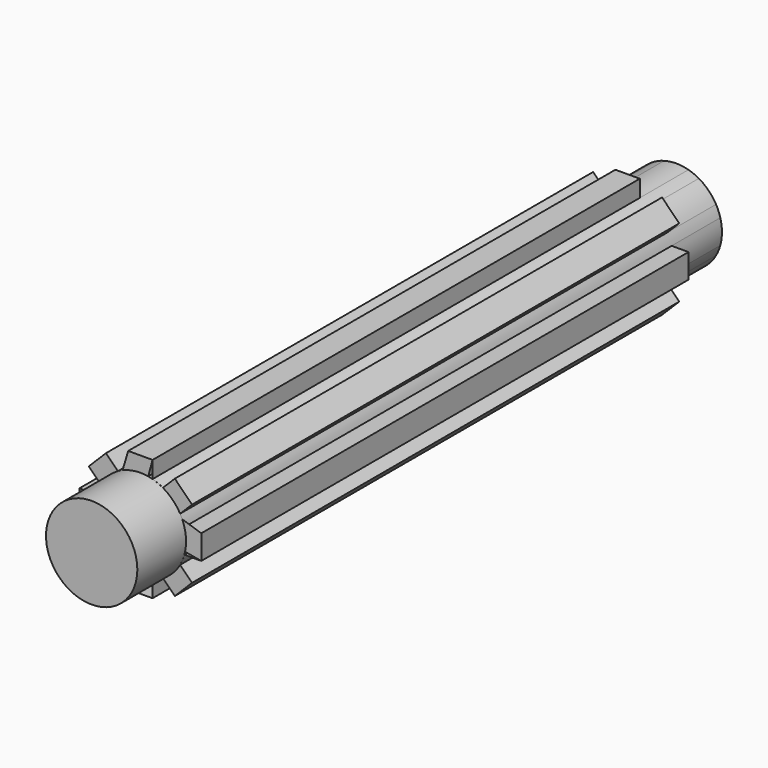
from build123d import *

# Parameters (mm, degrees)
F1_DEPTH = 127
F2_R     = 9.525
F3_DEPTH = 12.7
F5_DEPTH = 12.7


with BuildPart() as f1:
    # F0 (on Front) → F1 (new body)
    with BuildSketch(Plane.XZ):
        with BuildLine():
            Line((2.54, 12.7), (-2.54, 12.7))
            Line((-2.54, 12.7), (-2.54, 9.180089))
            ThreePointArc((-2.54, 9.180089), (-3.64506, 8.799953), (-4.695252, 8.287354))
            Line((-4.695252, 8.287354), (-7.184205, 10.776307))
            Line((-7.184205, 10.776307), (-8.980256, 8.980256))
            Line((-8.980256, 8.980256), (-10.776307, 7.184205))
            Line((-10.776307, 7.184205), (-8.287354, 4.695252))
            ThreePointArc((-8.287354, 4.695252), (-8.799953, 3.64506), (-9.180089, 2.54))
            Line((-9.180089, 2.54), (-12.7, 2.54))
            Line((-12.7, 2.54), (-12.7, -2.54))
            Line((-12.7, -2.54), (-9.180089, -2.54))
            ThreePointArc((-9.180089, -2.54), (-8.799953, -3.64506), (-8.287354, -4.695252))
            Line((-8.287354, -4.695252), (-10.776307, -7.184205))
            Line((-10.776307, -7.184205), (-8.980256, -8.980256))
            Line((-8.980256, -8.980256), (-7.184205, -10.776307))
            Line((-7.184205, -10.776307), (-4.695252, -8.287354))
            ThreePointArc((-4.695252, -8.287354), (-3.64506, -8.799953), (-2.54, -9.180089))
            Line((-2.54, -9.180089), (-2.54, -12.7))
            Line((-2.54, -12.7), (2.54, -12.7))
            Line((2.54, -12.7), (2.54, -9.180089))
            ThreePointArc((2.54, -9.180089), (3.64506, -8.799953), (4.695252, -8.287354))
            Line((4.695252, -8.287354), (7.184205, -10.776307))
            Line((7.184205, -10.776307), (8.980256, -8.980256))
            Line((8.980256, -8.980256), (10.776307, -7.184205))
            Line((10.776307, -7.184205), (8.287354, -4.695252))
            ThreePointArc((8.287354, -4.695252), (8.799953, -3.64506), (9.180089, -2.54))
            Line((9.180089, -2.54), (12.7, -2.54))
            Line((12.7, -2.54), (12.7, 2.54))
            Line((12.7, 2.54), (9.180089, 2.54))
            ThreePointArc((9.180089, 2.54), (8.799953, 3.64506), (8.287354, 4.695252))
            Line((8.287354, 4.695252), (10.776307, 7.184205))
            Line((10.776307, 7.184205), (8.980256, 8.980256))
            Line((8.980256, 8.980256), (7.184205, 10.776307))
            Line((7.184205, 10.776307), (4.695252, 8.287354))
            ThreePointArc((4.695252, 8.287354), (3.64506, 8.799953), (2.54, 9.180089))
            Line((2.54, 9.180089), (2.54, 12.7))
        make_face()
    extrude(amount=F1_DEPTH)

    # F2 (on face) → F3 (join)
    with BuildSketch(Plane.XZ.offset(127)):
        Circle(F2_R)
    extrude(amount=F3_DEPTH)

    # F4 (on face) → F5 (join)
    with BuildSketch(Plane(origin=(0, 0, 0), x_dir=(-1, 0, 0), z_dir=(0, 1, 0))):
        with BuildLine():
            ThreePointArc((9.180089, -2.54), (9.438378, -1.281656), (9.525, 0))
            ThreePointArc((9.525, 0), (9.438378, 1.281656), (9.180089, 2.54))
            ThreePointArc((9.180089, 2.54), (8.799953, 3.64506), (8.287354, 4.695252))
            ThreePointArc((8.287354, 4.695252), (6.735192, 6.735192), (4.695252, 8.287354))
            ThreePointArc((4.695252, 8.287354), (3.64506, 8.799953), (2.54, 9.180089))
            ThreePointArc((2.54, 9.180089), (0, 9.525), (-2.54, 9.180089))
            ThreePointArc((-2.54, 9.180089), (-3.64506, 8.799953), (-4.695252, 8.287354))
            ThreePointArc((-4.695252, 8.287354), (-6.735192, 6.735192), (-8.287354, 4.695252))
            ThreePointArc((-8.287354, 4.695252), (-8.799953, 3.64506), (-9.180089, 2.54))
            ThreePointArc((-9.180089, 2.54), (-9.525, 0), (-9.180089, -2.54))
            ThreePointArc((-9.180089, -2.54), (-8.799953, -3.64506), (-8.287354, -4.695252))
            ThreePointArc((-8.287354, -4.695252), (-6.735192, -6.735192), (-4.695252, -8.287354))
            ThreePointArc((-4.695252, -8.287354), (-3.64506, -8.799953), (-2.54, -9.180089))
            ThreePointArc((-2.54, -9.180089), (0, -9.525), (2.54, -9.180089))
            ThreePointArc((2.54, -9.180089), (3.64506, -8.799953), (4.695252, -8.287354))
            ThreePointArc((4.695252, -8.287354), (6.735192, -6.735192), (8.287354, -4.695252))
            ThreePointArc((8.287354, -4.695252), (8.799953, -3.64506), (9.180089, -2.54))
        make_face()
    extrude(amount=F5_DEPTH)


solid = f1.part
